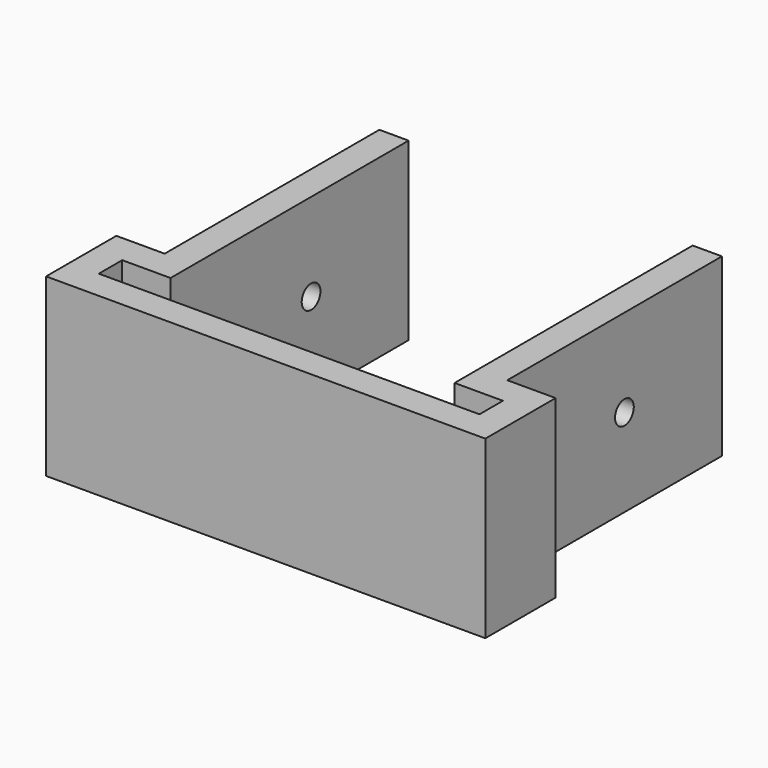
from build123d import *

# Parameters (mm, degrees)
F1_DEPTH = 60
F2_R     = 4
F3_DEPTH = 154


with BuildPart() as f1:
    # F0 (on Top) → F1 (new body)
    with BuildSketch(Plane.XY):
        Polygon((-44.204902, -35.60724), (-44.204902, -65.60724), (105.795098, -65.60724), (105.795098, -35.60724), (89.295098, -35.60724), (89.295098, 56.011811), (79.295098, 56.011811), (79.295098, -45.60724), (95.795098, -45.60724), (95.795098, -55.60724), (-34.204902, -55.60724), (-34.204902, -45.60724), (-17.704902, -45.60724), (-17.704902, 56.011811), (-27.704902, 56.011811), (-27.704902, -35.60724), align=None)
    extrude(amount=F1_DEPTH)

    # F2 (on face) → F3 (cut)
    with BuildSketch(Plane.YZ.offset(89.295098)):
        with Locations((14.39276, 30)):
            Circle(F2_R)
    extrude(amount=-F3_DEPTH, mode=Mode.SUBTRACT)


solid = f1.part
